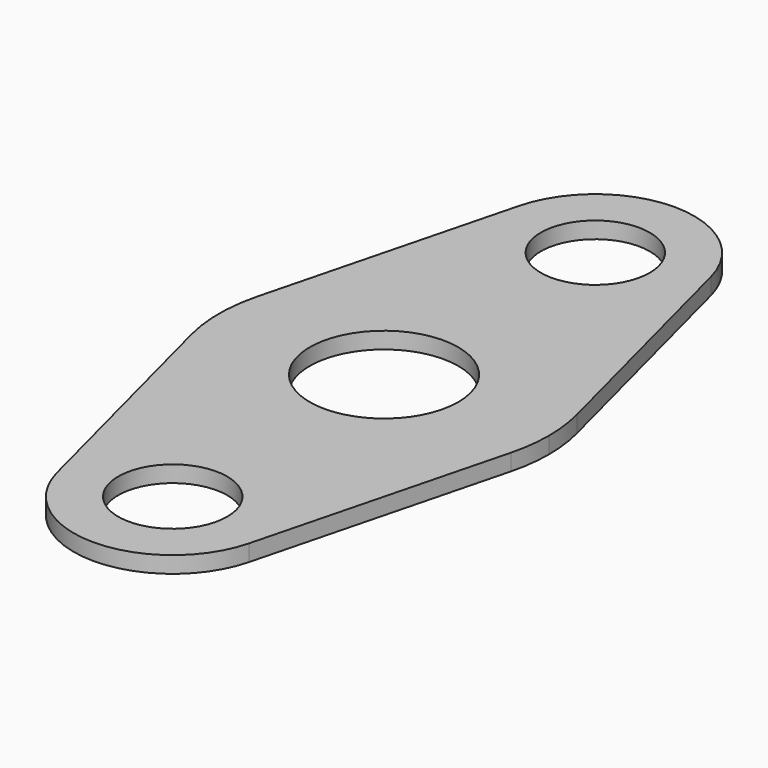
from build123d import *

# Parameters (mm, degrees)
F0_R     = 3.3
F0_R_2   = 4.5
F1_DEPTH = 1
F2_D     = 6.6
F3_D     = 6.6
F4_D     = 9


with BuildPart() as f1:
    # F0 (on Top) → F1 (new body)
    with BuildSketch(Plane.XY):
        with Locations((0, 16)):
            Circle(F0_R)
        Circle(F0_R_2)
        with Locations((0, -16)):
            Circle(F0_R)
        with BuildLine():
            ThreePointArc((0, 10), (6.123724, 7.905694), (9.682458, 2.5))
            Line((9.682458, 2.5), (5.809475, 17.5))
            ThreePointArc((5.809475, 17.5), (5.952178, 16.756026), (6, 16))
            ThreePointArc((6, 16), (4.242641, 11.757359), (0, 10))
        make_face()
        with BuildLine():
            ThreePointArc((-9.682458, 2.5), (-6.123724, 7.905694), (0, 10))
            ThreePointArc((0, 10), (-4.743416, 12.325765), (-5.809475, 17.5))
            Line((-5.809475, 17.5), (-9.682458, 2.5))
        make_face()
        with BuildLine():
            Line((5.809475, -17.5), (9.682458, -2.5))
            ThreePointArc((9.682458, -2.5), (6.123724, -7.905694), (0, -10))
            ThreePointArc((0, -10), (4.242641, -11.757359), (6, -16))
            ThreePointArc((6, -16), (5.952178, -16.756026), (5.809475, -17.5))
        make_face()
        with BuildLine():
            ThreePointArc((-5.809475, -17.5), (-4.743416, -12.325765), (0, -10))
            ThreePointArc((0, -10), (-6.123724, -7.905694), (-9.682458, -2.5))
            Line((-9.682458, -2.5), (-5.809475, -17.5))
        make_face()
        with BuildLine():
            ThreePointArc((6, -16), (4.242641, -11.757359), (0, -10))
            ThreePointArc((0, -10), (-4.743416, -12.325765), (-5.809475, -17.5))
            ThreePointArc((-5.809475, -17.5), (0, -22), (5.809475, -17.5))
            ThreePointArc((5.809475, -17.5), (5.952178, -16.756026), (6, -16))
        make_face()
        with Locations((0, -16)):
            Circle(F0_R, mode=Mode.SUBTRACT)
        with BuildLine():
            ThreePointArc((-5.809475, 17.5), (-4.743416, 12.325765), (0, 10))
            ThreePointArc((0, 10), (4.242641, 11.757359), (6, 16))
            ThreePointArc((6, 16), (5.952178, 16.756026), (5.809475, 17.5))
            ThreePointArc((5.809475, 17.5), (0, 22), (-5.809475, 17.5))
        make_face()
        with Locations((0, 16)):
            Circle(F0_R, mode=Mode.SUBTRACT)
        with BuildLine():
            ThreePointArc((9.682458, -2.5), (9.920297, -1.260043), (10, 0))
            ThreePointArc((10, 0), (9.920297, 1.260043), (9.682458, 2.5))
            ThreePointArc((9.682458, 2.5), (6.123724, 7.905694), (0, 10))
            ThreePointArc((0, 10), (-6.123724, 7.905694), (-9.682458, 2.5))
            ThreePointArc((-9.682458, 2.5), (-10, 0), (-9.682458, -2.5))
            ThreePointArc((-9.682458, -2.5), (-6.123724, -7.905694), (0, -10))
            ThreePointArc((0, -10), (6.123724, -7.905694), (9.682458, -2.5))
        make_face()
        Circle(F0_R_2, mode=Mode.SUBTRACT)
    extrude(amount=F1_DEPTH)

    # F2 (through all)
    with Locations(Plane(origin=(0, 0, 0), x_dir=(1, 0, 0), z_dir=(0, 0, -1))):
        with Locations((0, 16)):
            Hole(F2_D / 2)

    # F3 (through all)
    with Locations(Plane(origin=(0, 0, 0), x_dir=(1, 0, 0), z_dir=(0, 0, -1))):
        with Locations((0, -16)):
            Hole(F3_D / 2)

    # F4 (through all)
    with Locations(Plane(origin=(0, 0, 0), x_dir=(1, 0, 0), z_dir=(0, 0, -1))):
        with Locations((0, 0)):
            Hole(F4_D / 2)


solid = f1.part
